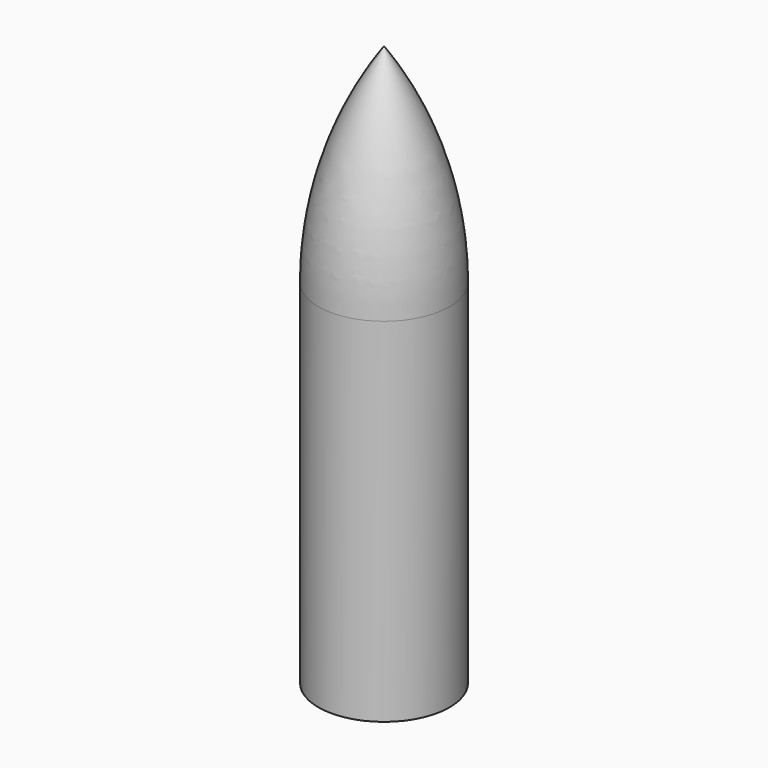
from build123d import *


with BuildPart() as f1:
    # F0 (on Right) → F1 (revolve)
    with BuildSketch(Plane.YZ):
        with BuildLine():
            Line((9.5, 62), (9.5, 0))
            Line((9.5, 0), (12.360268, 0))
            Line((12.360268, 0), (12.360268, 66.437156))
            ThreePointArc((12.360268, 66.437156), (9.197041, 86.994956), (0, 105.650882))
            Line((0, 105.650882), (0, 66.437156))
            Line((0, 66.437156), (0, 62))
            Line((0, 62), (9.5, 62))
        make_face()
    revolve(axis=Axis((0, 0, 86.044019), (0, 0, 1)))


solid = f1.part
